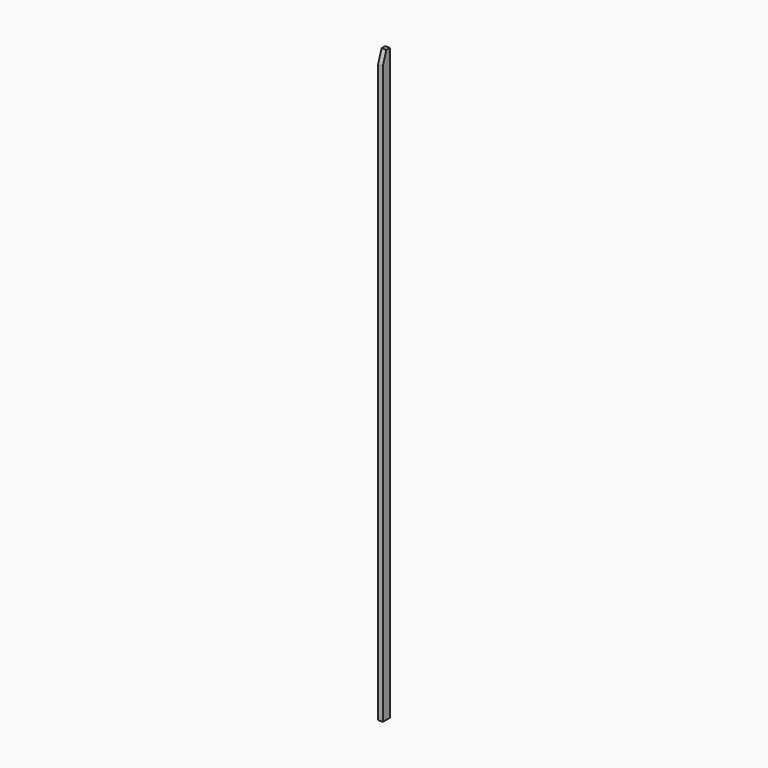
from build123d import *

# Parameters (mm, degrees)
F0_W     = 80
F0_H     = 150
F1_DEPTH = 10000
F2_SIZE2 = 210
F2_SIZE  = 75


with BuildPart() as f1:
    # F0 (on Top) → F1 (new body)
    with BuildSketch(Plane.XY):
        with Locations((-20.9330572265, -33.2729384303)):
            Rectangle(F0_W, F0_H)
    extrude(amount=F1_DEPTH)

    # F2
    f2_edges = [f1.edges().sort_by_distance(p)[0] for p in [
        (-20.933057, -108.272938, 10000),
    ]]
    f2_side = f1.faces().sort_by_distance((-20.933057, -33.272938, 10000))[0]
    chamfer(f2_edges, length=F2_SIZE, length2=F2_SIZE2, reference=f2_side)


solid = f1.part
